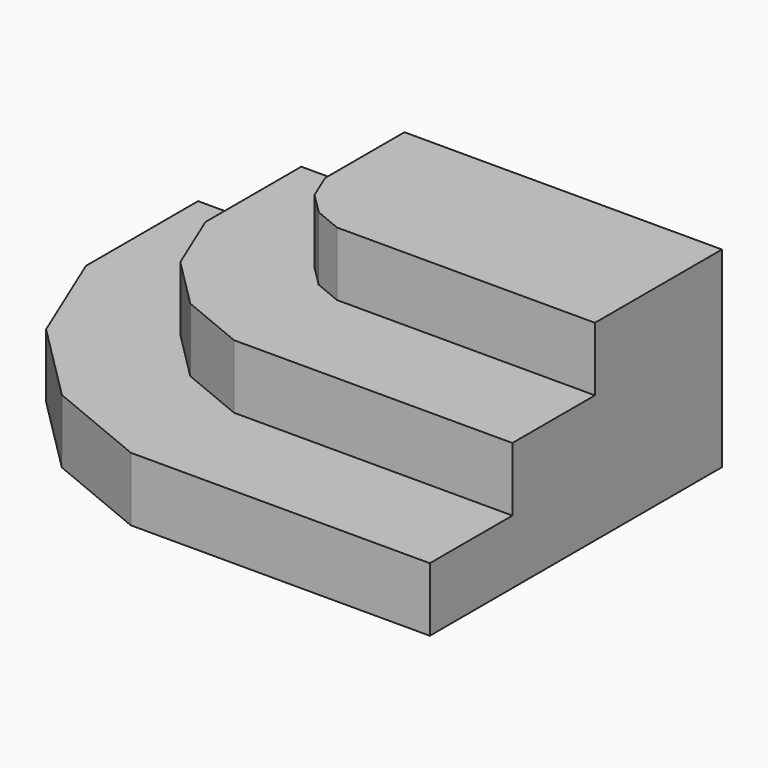
from build123d import *

# Parameters (mm, degrees)
F1_DEPTH = 161
F3_DEPTH = 161
F5_DEPTH = 161


with BuildPart() as f1:
    # F0 (on Top) → F1 (new body)
    with BuildSketch(Plane.XY):
        Polygon((800, 0), (0, 0), (0, -250), (28.50642, -318.820585), (81.179415, -371.49358), (150, -400), (800, -400), align=None)
    extrude(amount=-F1_DEPTH)

    # F2 (on face) → F3 (join)
    with BuildSketch(Plane(origin=(0, 0, -161), x_dir=(1, 0, 0), z_dir=(0, 0, -1))):
        Polygon((-191.910937, 466.098754), (-260, 301.717216), (-260, 0), (800, 0), (800, 660), (98.282784, 660), (-66.098754, 591.910937), align=None)
    extrude(amount=F3_DEPTH)

    # F4 (on face) → F5 (join)
    with BuildSketch(Plane(origin=(0, 0, -322), x_dir=(1, 0, 0), z_dir=(0, 0, -1))):
        Polygon((-412.328294, 613.376924), (-520, 353.434431), (-520, 0), (800, 0), (800, 920), (46.565569, 920), (-213.376924, 812.328294), align=None)
    extrude(amount=F5_DEPTH)


solid = f1.part
